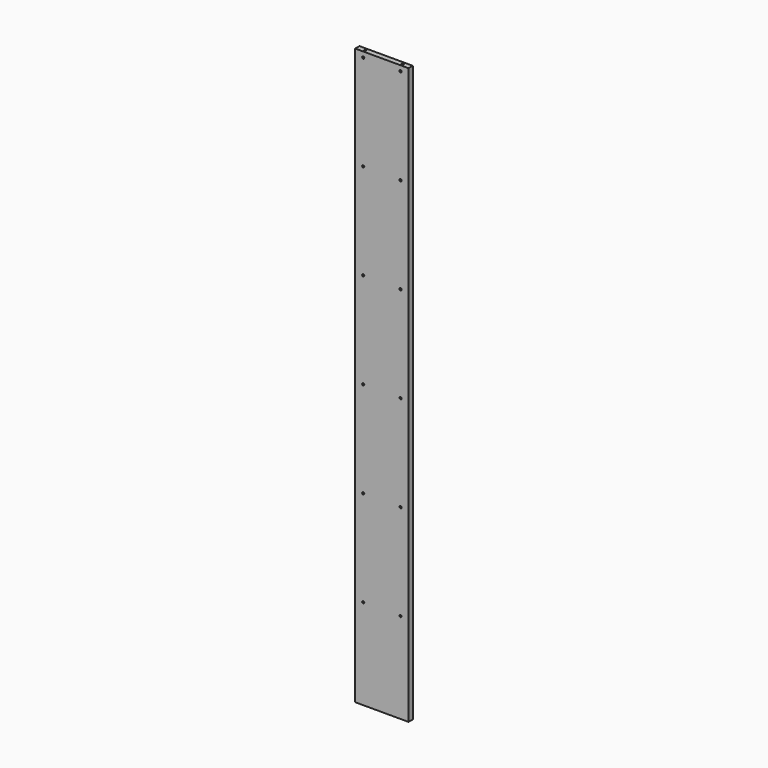
from build123d import *

# Parameters (mm, degrees)
F0_W     = 127
F0_H     = 1371.6
F1_DEPTH = 12.7
F2_R     = 2.54
F3_DEPTH = 309.88
F4_R     = 2.54
F5_DEPTH = 25.4
F6_R     = 2.54
F7_DEPTH = 25.4


with BuildPart() as f1:
    # F0 (on Front) → F1 (new body)
    with BuildSketch(Plane.XZ):
        Rectangle(F0_W, F0_H)
    extrude(amount=F1_DEPTH)

    # F2 (on face) → F3 (cut)
    with BuildSketch(Plane.XZ.offset(12.7)):
        with Locations((-44.45, -469.9)):
            Circle(F2_R)
        with Locations((44.45, -469.9)):
            Circle(F2_R)
        with Locations((44.45, -241.3)):
            Circle(F2_R)
        with Locations((-44.45, -241.3)):
            Circle(F2_R)
        with Locations((44.45, -12.7)):
            Circle(F2_R)
        with Locations((-44.45, -12.7)):
            Circle(F2_R)
        with Locations((44.45, 215.9)):
            Circle(F2_R)
        with Locations((-44.45, 215.9)):
            Circle(F2_R)
        with Locations((44.45, 444.5)):
            Circle(F2_R)
        with Locations((-44.45, 444.5)):
            Circle(F2_R)
        with Locations((44.45, 673.1)):
            Circle(F2_R)
        with Locations((-44.45, 673.1)):
            Circle(F2_R)
    extrude(amount=-F3_DEPTH, mode=Mode.SUBTRACT)

    # F4 (on face) → F5 (cut)
    with BuildSketch(Plane(origin=(0, 0, -685.8), x_dir=(1, 0, 0), z_dir=(0, 0, -1))):
        with Locations((-44.45, 6.35)):
            Circle(F4_R)
        with Locations((44.45, 6.35)):
            Circle(F4_R)
    extrude(amount=-F5_DEPTH, mode=Mode.SUBTRACT)

    # F6 (on face) → F7 (cut)
    with BuildSketch(Plane.XY.offset(685.8)):
        with Locations((-44.45, -6.35)):
            Circle(F6_R)
        with Locations((44.45, -6.35)):
            Circle(F6_R)
    extrude(amount=-F7_DEPTH, mode=Mode.SUBTRACT)


solid = f1.part
